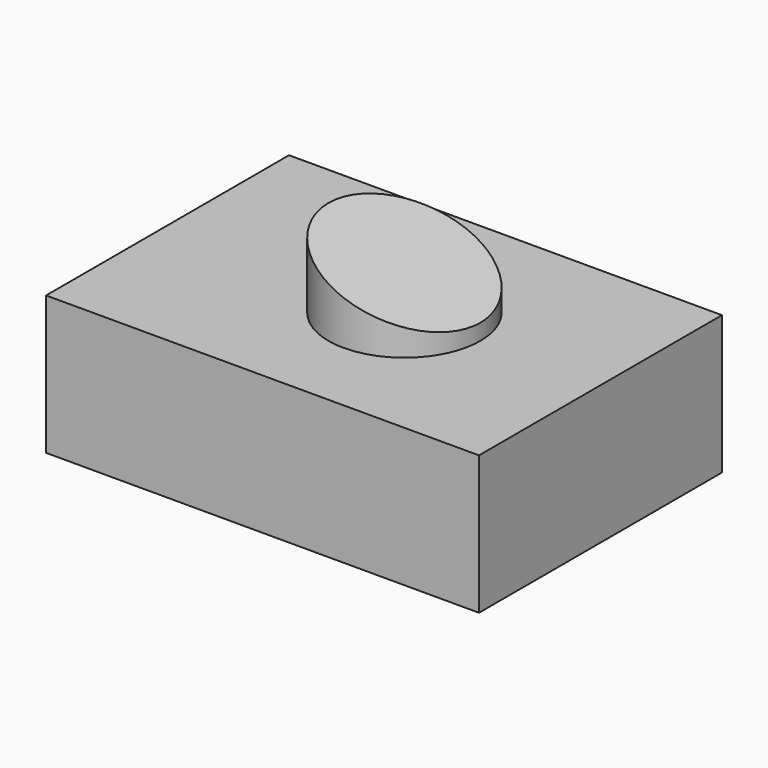
from build123d import *

# Parameters (mm, degrees)
F1_DEPTH      = 50.8
F2_W          = 25.4
F2_H          = 70.4181268811
F5_DEPTH      = 127
F5_DEPTH_BACK = 25.4


with BuildPart() as f1:
    # F0 (on Front) → F1 (new body, symmetric)
    with BuildSketch(Plane.XZ):
        Polygon((65.6014406245, -19.6795935976), (65.6014406245, 26.6920606943), (-79.2436958414, 26.6920606943), (-79.2436958414, -19.6795935976), (-17.5021556386, -19.6795935976), (33.2978443614, -19.6795935976), align=None)
    extrude(amount=F1_DEPTH, both=True)


with BuildPart() as f3:
    # F2 (on Front) → F3 (revolve)
    with BuildSketch(Plane.XZ):
        with Locations((12.7, 15.6728737056)):
            Rectangle(F2_W, F2_H)
    revolve(axis=Axis((0, 0, 15.6728737056), (0, 0, -1)))

    # F4 (on Front) → F5 (cut, two sides)
    with BuildSketch(Plane.XZ) as f5_sk:
        Polygon((25.4, 32.0339436078), (25.4, 50.9257381415), (-25.7189797187, 50.9257381415), align=None)
    extrude(amount=-F5_DEPTH, mode=Mode.SUBTRACT)
    extrude(f5_sk.sketch, amount=F5_DEPTH_BACK, mode=Mode.SUBTRACT)


solid = Compound([f1.part, f3.part])
